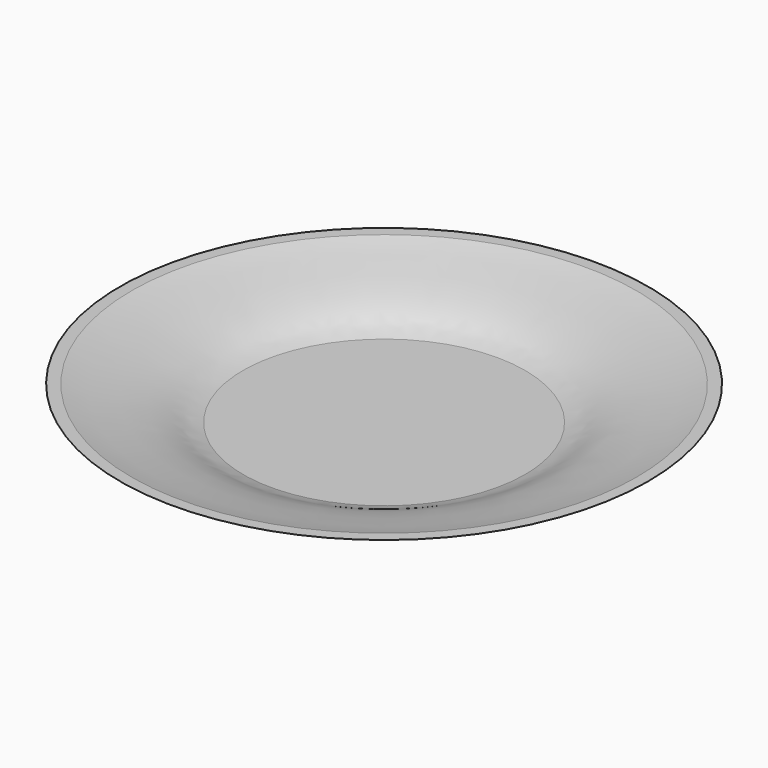
from build123d import *

# Parameters (mm, degrees)
F2_T = -1.27


with BuildPart() as f1:
    # F0 (on Front) → F1 (revolve)
    with BuildSketch(Plane.XZ):
        with BuildLine():
            Line((0, 12.6682485157), (0, 0))
            Line((0, 0), (47.625, 0))
            add(Edge.make_bspline(
                [(47.625, 0), (53.8013658377, 1.4061457979), (58.133886366, 6.4818991938), (81.6022957814, 9.6927500983), (88.9, 12.6682485157)],
                knots=[0, 0, 0, 0, 0.4078275151, 1, 1, 1, 1], degree=3))
            Line((88.9, 12.6682485157), (0, 12.6682485157))
        make_face()
    revolve(axis=Axis((0, 0, 6.3341242579), (0, 0, 1)))

    # F2
    f2_openings = [f1.faces().sort_by_distance(p)[0] for p in [
        (0, 0, 12.668249),
    ]]
    offset(amount=F2_T, openings=f2_openings)


solid = f1.part
